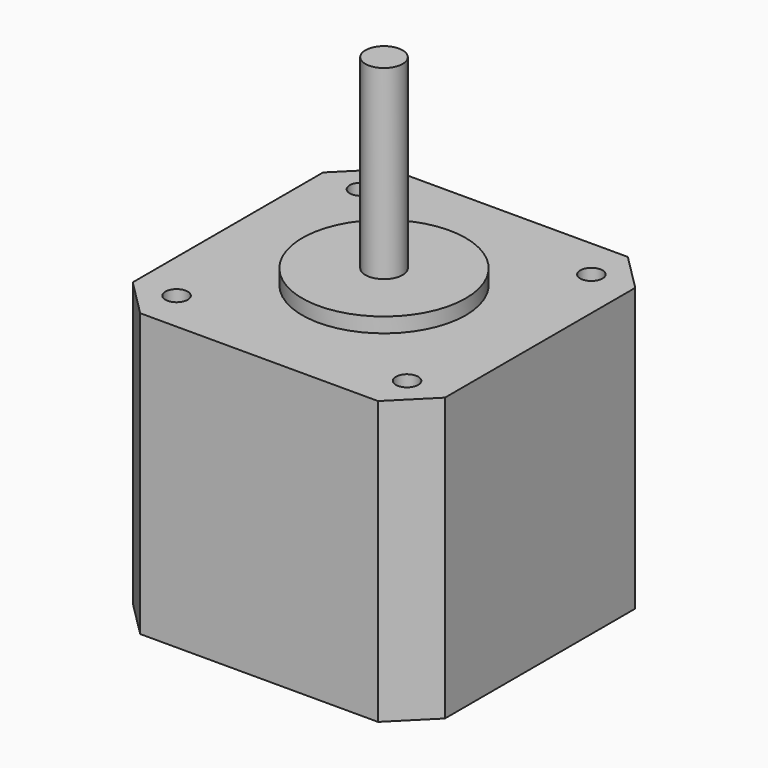
from build123d import *

# Parameters (mm, degrees)
F0_W     = 42
F0_H     = 42
F1_DEPTH = 38
F2_SIZE  = 5
F3_R     = 11
F4_DEPTH = 2
F5_R     = 2.5
F6_DEPTH = 25
F7_R     = 1.5
F8_DEPTH = 25


with BuildPart() as f1:
    # F0 (on Top) → F1 (new body)
    with BuildSketch(Plane.XY):
        with Locations((21, 21)):
            Rectangle(F0_W, F0_H)
    extrude(amount=F1_DEPTH)

    # F2
    f2_edges = [f1.edges().sort_by_distance(p)[0] for p in [
        (0, 0, 19),
        (0, 42, 19),
        (42, 0, 19),
        (42, 42, 19),
    ]]
    chamfer(f2_edges, length=F2_SIZE)

    # F3 (on face) → F4 (join)
    with BuildSketch(Plane.XY.offset(38)):
        with Locations((21, 21)):
            Circle(F3_R)
    extrude(amount=F4_DEPTH)

    # F5 (on face) → F6 (join)
    with BuildSketch(Plane.XY.offset(40)):
        with Locations((21, 21)):
            Circle(F5_R)
    extrude(amount=F6_DEPTH)

    # F7 (on face) → F8 (cut)
    with BuildSketch(Plane.XY.offset(38)):
        with Locations((5.5, 36.5)):
            Circle(F7_R)
        with Locations((5.5, 5.5)):
            Circle(F7_R)
        with Locations((36.5, 36.5)):
            Circle(F7_R)
        with Locations((36.5, 5.5)):
            Circle(F7_R)
    extrude(amount=-F8_DEPTH, mode=Mode.SUBTRACT)


solid = f1.part
